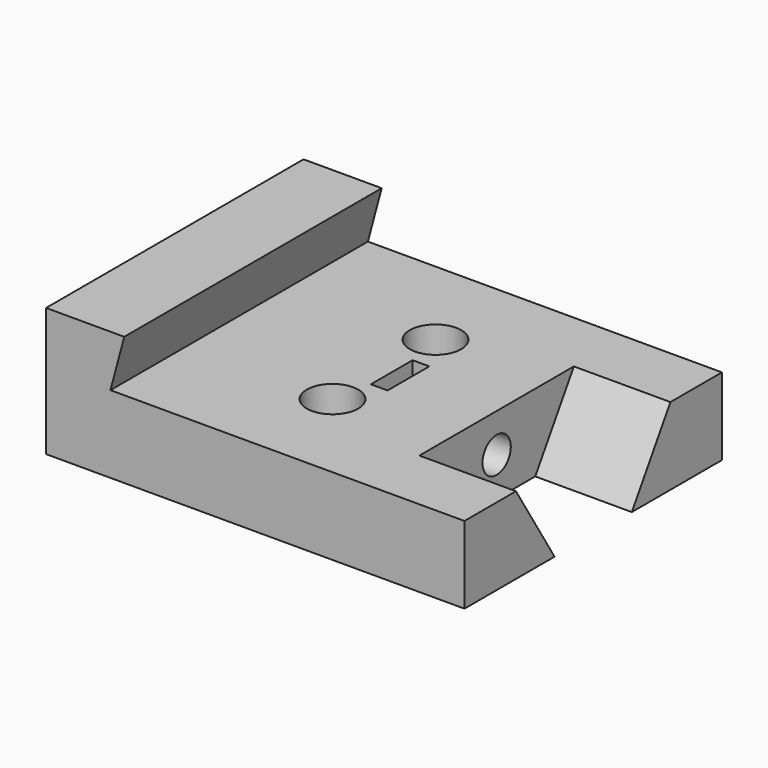
from build123d import *

# Parameters (mm, degrees)
PAD_DEPTH       = 50
POCKET_DEPTH    = 15
SKETCH003_R     = 2.2
POCKET002_DEPTH = 20.001
SKETCH004_W     = 2.6
SKETCH004_H     = 8.1
POCKET003_DEPTH = 10.5
SKETCH005_R     = 4
POCKET004_DEPTH = 6
SKETCH002_R     = 2.75
POCKET005_DEPTH = 45


with BuildPart() as part:
    # Sketch → Pad (new body)
    with BuildSketch(Plane.XZ):
        Polygon((0, 0), (65, 0), (65, 12), (10, 12), (12.143594, 20), (0, 20), align=None)
    extrude(amount=PAD_DEPTH)

    # Sketch001 (on Face2 of Pad) → Pocket (cut)
    with BuildSketch(Plane(origin=(65, 0, 0), x_dir=(0, 0, 1), z_dir=(1, 0, 0))):
        Polygon((0, 32.5), (12, 40), (12, 10), (0, 17.5), (0, 25), align=None)
    extrude(amount=-POCKET_DEPTH, mode=Mode.SUBTRACT)

    # Sketch003 → Pocket002 (cut, through all)
    with BuildSketch(Plane(origin=(0, 0, 0), x_dir=(1, 0, 0), z_dir=(0, 0, -1))):
        with Locations((32.5, 35)):
            Circle(SKETCH003_R)
        with Locations((32.5, 15)):
            Circle(SKETCH003_R)
    extrude(amount=-POCKET002_DEPTH, mode=Mode.SUBTRACT)

    # Sketch004 (on Face12 of Pocket002) → Pocket003 (cut)
    with BuildSketch(Plane(origin=(0, 0, 12), x_dir=(-1, 0, 0), z_dir=(0, 0, 1))):
        with Locations((-35, 25)):
            Rectangle(SKETCH004_W, SKETCH004_H)
    extrude(amount=-POCKET003_DEPTH, mode=Mode.SUBTRACT)

    # Sketch005 (on Face12 of Pocket003) → Pocket004 (cut)
    with BuildSketch(Plane(origin=(0, 0, 12), x_dir=(-1, 0, 0), z_dir=(0, 0, 1))):
        with Locations((-32.5, 35)):
            Circle(SKETCH005_R)
        with Locations((-32.5, 15)):
            Circle(SKETCH005_R)
    extrude(amount=-POCKET004_DEPTH, mode=Mode.SUBTRACT)

    # Sketch002 (on Face5 of Pocket) → Pocket005 (cut)
    with BuildSketch(Plane(origin=(50, 0, 0), x_dir=(0, 0, 1), z_dir=(1, 0, 0))):
        with Locations((6, 25)):
            Circle(SKETCH002_R)
    extrude(amount=-POCKET005_DEPTH, mode=Mode.SUBTRACT)


solid = part.part
